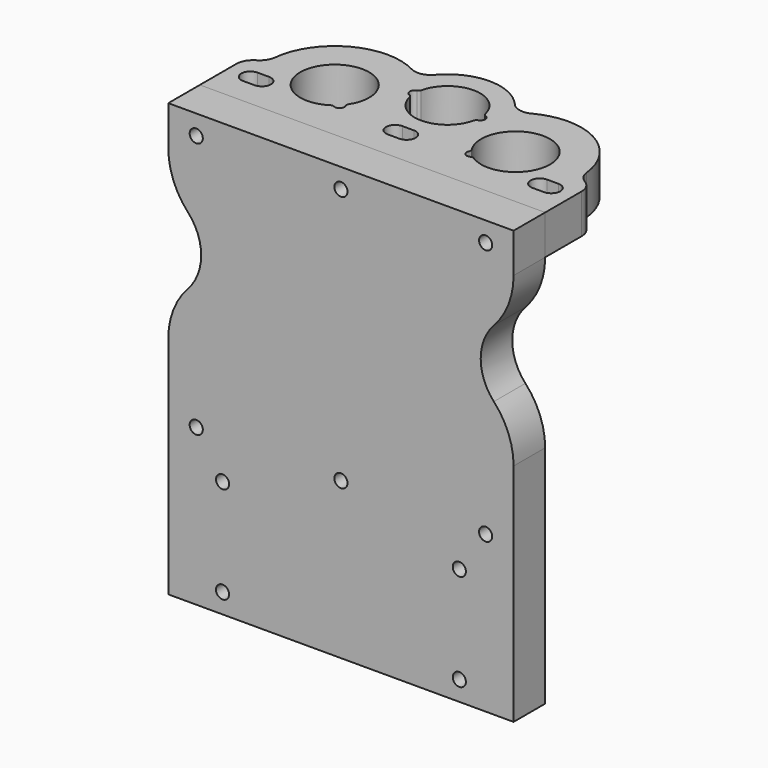
from build123d import *

# Parameters (mm, degrees)
F0_W      = 105
F0_H      = 104
F1_DEPTH  = 12
F3_DEPTH  = 12
F4_R      = 5
F5_W      = 105
F5_H      = 27.5
F6_DEPTH  = 12
F7_R      = 2
F8_DEPTH  = 25
F9_R      = 15
F10_DEPTH = 25
F11_R     = 22.5


with BuildPart() as f1:
    # F0 (on Front) → F1 (new body)
    with BuildSketch(Plane.XZ):
        with Locations((0, 52)):
            Rectangle(F0_W, F0_H)
    extrude(amount=-F1_DEPTH)

    # F5 (on face) → F6 (join, through all)
    with BuildSketch(Plane.XZ):
        with Locations((0, -13.75)):
            Rectangle(F5_W, F5_H)
    extrude(amount=-F6_DEPTH)


with BuildPart() as f3:
    # F2 (on face) → F3 (new body)
    with BuildSketch(Plane.XY.offset(104)):
        with BuildLine():
            Line((52.5, 28.5), (47.4999980907, 32))
            ThreePointArc((47.4999980907, 32), (41.6421337144, 46.1421356237), (27.4999980907, 52))
            ThreePointArc((27.4999980907, 52), (22.740432122, 51.4254094369), (18.2543463224, 49.734653179))
            ThreePointArc((18.2543463224, 49.734653179), (14.9949666089, 49.259002978), (12.1469968613, 50.9139554086))
            ThreePointArc((12.1469968613, 50.9139554086), (11.6483115175, 51.4689032629), (11.1242977306, 52))
            ThreePointArc((11.1242977306, 52), (0, 56.5), (-11.1242977306, 52))
            ThreePointArc((-11.1242977306, 52), (-11.6483115175, 51.4689032629), (-12.1469968613, 50.9139554086))
            ThreePointArc((-12.1469968613, 50.9139554086), (-14.9949666089, 49.259002978), (-18.2543463224, 49.734653179))
            ThreePointArc((-18.2543463224, 49.734653179), (-22.740432122, 51.4254094369), (-27.4999980907, 52))
            ThreePointArc((-27.4999980907, 52), (-41.6421337144, 46.1421356237), (-47.4999980907, 32))
            Line((-47.4999980907, 32), (-52.5, 28.5))
            Line((-52.5, 28.5), (-52.5, 12))
            Line((-52.5, 12), (-47.5, 12))
            Line((-47.5, 12), (47.5, 12))
            Line((47.5, 12), (52.5, 12))
            Line((52.5, 12), (52.5, 28.5))
        make_face()
        with BuildLine():
            Line((-45.75, 25.5), (-42.25, 25.5))
            ThreePointArc((-42.25, 25.5), (-39.5, 22.75), (-42.25, 20))
            Line((-42.25, 20), (-45.75, 20))
            ThreePointArc((-45.75, 20), (-48.5, 22.75), (-45.75, 25.5))
        make_face(mode=Mode.SUBTRACT)
        with BuildLine():
            ThreePointArc((-20.7869945386, 23.2632266648), (-21.2971382344, 23.3755438907), (-21.794316347, 23.2153075842))
            ThreePointArc((-21.794316347, 23.2153075842), (-34.9069416236, 39.4069435329), (-18.7153056748, 26.2943182564))
            ThreePointArc((-18.7153056748, 26.2943182564), (-18.8755419814, 25.7971401438), (-18.7632247555, 25.286996448))
            ThreePointArc((-18.7632247555, 25.286996448), (-19.0323943859, 23.5323962953), (-20.7869945386, 23.2632266648))
        make_face(mode=Mode.SUBTRACT)
        with BuildLine():
            ThreePointArc((-1.75, 20), (-4.5, 22.75), (-1.75, 25.5))
            Line((-1.75, 25.5), (1.75, 25.5))
            ThreePointArc((1.75, 25.5), (4.5, 22.75), (1.75, 20))
            Line((1.75, 20), (-1.75, 20))
        make_face(mode=Mode.SUBTRACT)
        with BuildLine():
            ThreePointArc((42.25, 20), (39.5, 22.75), (42.25, 25.5))
            Line((42.25, 25.5), (45.75, 25.5))
            ThreePointArc((45.75, 25.5), (48.5, 22.75), (45.75, 20))
            Line((45.75, 20), (42.25, 20))
        make_face(mode=Mode.SUBTRACT)
        with BuildLine():
            ThreePointArc((18.7153056748, 26.2943182564), (34.9069416236, 39.4069435329), (21.794316347, 23.2153075842))
            ThreePointArc((21.794316347, 23.2153075842), (21.2971382344, 23.3755438907), (20.7869945386, 23.2632266648))
            ThreePointArc((20.7869945386, 23.2632266648), (19.0323943859, 23.5323962953), (18.7632247555, 25.286996448))
            ThreePointArc((18.7632247555, 25.286996448), (18.8755419814, 25.7971401438), (18.7153056748, 26.2943182564))
        make_face(mode=Mode.SUBTRACT)
        with BuildLine():
            ThreePointArc((9.7358200456, 38.3287254802), (0, 30.525), (-9.7358200456, 38.3287254802))
            ThreePointArc((-9.7358200456, 38.3287254802), (-9.9771083652, 38.7894094573), (-10.4171052632, 39.0666323095))
            ThreePointArc((-10.4171052632, 39.0666323095), (-11.475, 40.5), (-10.4171052632, 41.9333676905))
            ThreePointArc((-10.4171052632, 41.9333676905), (-9.9771083652, 42.2105905427), (-9.7358200456, 42.6712745198))
            ThreePointArc((-9.7358200456, 42.6712745198), (0, 50.475), (9.7358200456, 42.6712745198))
            ThreePointArc((9.7358200456, 42.6712745198), (9.9771083652, 42.2105905427), (10.4171052632, 41.9333676905))
            ThreePointArc((10.4171052632, 41.9333676905), (11.475, 40.5), (10.4171052632, 39.0666323095))
            ThreePointArc((10.4171052632, 39.0666323095), (9.9771083652, 38.7894094573), (9.7358200456, 38.3287254802))
        make_face(mode=Mode.SUBTRACT)
    extrude(amount=-F3_DEPTH)

    # F4
    f4_edges = [f3.edges().sort_by_distance(p)[0] for p in [
        (-47.499998, 32, 98),
        (-52.5, 28.5, 98),
        (47.499998, 32, 98),
        (52.5, 28.5, 98),
    ]]
    fillet(f4_edges, radius=F4_R)


with BuildPart() as f8_tool:
    # F7 (on face) → F8 (new body)
    with BuildSketch(Plane.XZ):
        with Locations((-44, 98)):
            Circle(F7_R)
        with Locations((44, 98)):
            Circle(F7_R)
        with Locations((0, 98)):
            Circle(F7_R)
        with Locations((44, 20)):
            Circle(F7_R)
        with Locations((0, 20)):
            Circle(F7_R)
        with Locations((-44, 20)):
            Circle(F7_R)
        with Locations((-36, -21.5)):
            Circle(F7_R)
        with Locations((36, -21.5)):
            Circle(F7_R)
        with Locations((36, 8)):
            Circle(F7_R)
        with Locations((-36, 8)):
            Circle(F7_R)
    extrude(amount=-F8_DEPTH)


with BuildPart() as f1_1:
    add(f1.part)

    # F8: cut by f8_tool
    add(f8_tool.part, mode=Mode.SUBTRACT)

    # F9 (on face) → F10 (cut)
    with BuildSketch(Plane.XZ):
        with Locations((-57.5, 66.5)):
            Circle(F9_R)
        with Locations((57.5, 66.5)):
            Circle(F9_R)
    extrude(amount=-F10_DEPTH, mode=Mode.SUBTRACT)

    # F11
    f11_edges = [f1_1.edges().sort_by_distance(p)[0] for p in [
        (-52.5, 6, 80.642136),
        (-52.5, 6, 52.357864),
        (52.5, 6, 80.642136),
        (52.5, 6, 52.357864),
    ]]
    fillet(f11_edges, radius=F11_R)


with BuildPart() as f3_1:
    add(f3.part)

    # F8: cut by f8_tool
    add(f8_tool.part, mode=Mode.SUBTRACT)


solid = Compound([f1_1.part, f3_1.part])
